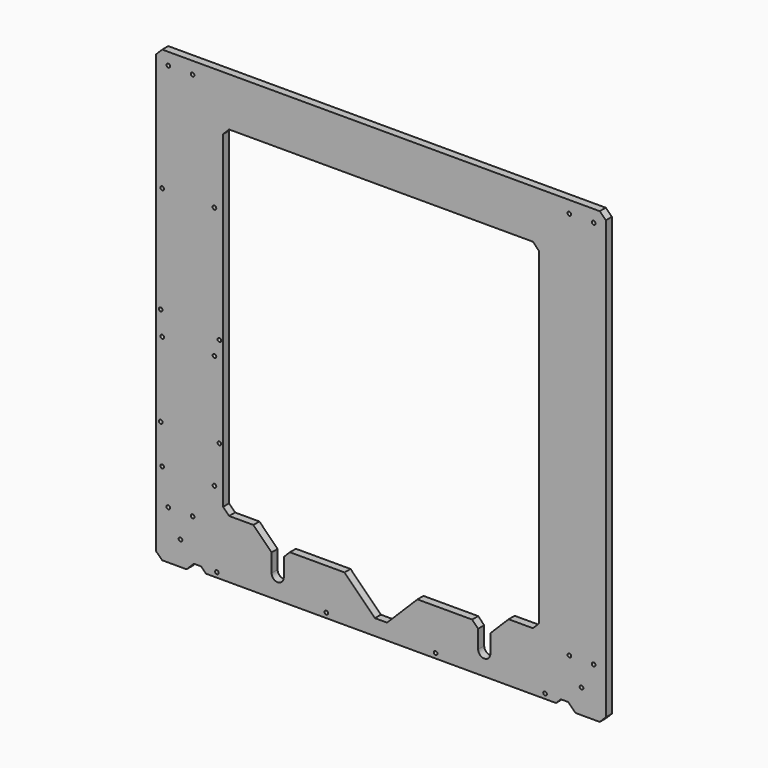
from build123d import *

# Parameters (mm, degrees)
F0_R     = 1.5
F1_DEPTH = 6.2


with BuildPart() as f1:
    # F0 (on Front) → F1 (new body)
    with BuildSketch(Plane.XZ):
        Polygon((-185, -180.191748), (-180, -185), (-160, -185), (-158, -183), (-154, -179), (-148, -179), (-144, -183), (144, -183), (148, -179), (154, -179), (158, -183), (160, -185), (180, -185), (185, -180), (185, 180), (180, 185), (-180, 185), (-185, 180), align=None)
        with Locations((-165, -165)):
            Circle(F0_R, mode=Mode.SUBTRACT)
        with Locations((-175, -145)):
            Circle(F0_R, mode=Mode.SUBTRACT)
        with Locations((-155, -145)):
            Circle(F0_R, mode=Mode.SUBTRACT)
        with Locations((-135, -179)):
            Circle(F0_R, mode=Mode.SUBTRACT)
        with Locations((-180.083222, -117.008445)):
            Circle(F0_R, mode=Mode.SUBTRACT)
        with Locations((-137.048456, -117.034667)):
            Circle(F0_R, mode=Mode.SUBTRACT)
        with Locations((-45, -179)):
            Circle(F0_R, mode=Mode.SUBTRACT)
        with Locations((-181.26, -85)):
            Circle(F0_R, mode=Mode.SUBTRACT)
        with Locations((-133, -85)):
            Circle(F0_R, mode=Mode.SUBTRACT)
        with Locations((-180.048456, -23.034667)):
            Circle(F0_R, mode=Mode.SUBTRACT)
        with Locations((-181.26, -3.72)):
            Circle(F0_R, mode=Mode.SUBTRACT)
        with Locations((-137.048456, -23.034667)):
            Circle(F0_R, mode=Mode.SUBTRACT)
        with Locations((-133, -10.07)):
            Circle(F0_R, mode=Mode.SUBTRACT)
        with Locations((45, -179)):
            Circle(F0_R, mode=Mode.SUBTRACT)
        with Locations((135, -179)):
            Circle(F0_R, mode=Mode.SUBTRACT)
        with Locations((165, -165)):
            Circle(F0_R, mode=Mode.SUBTRACT)
        with Locations((155, -145)):
            Circle(F0_R, mode=Mode.SUBTRACT)
        with Locations((175, -145)):
            Circle(F0_R, mode=Mode.SUBTRACT)
        with BuildLine():
            ThreePointArc((-80, -165), (-85, -170), (-90, -165))
            Line((-90, -165), (-90, -150))
            Line((-90, -150), (-105, -135))
            Line((-105, -135), (-125, -135))
            Line((-125, -135), (-130, -130))
            Line((-130, -130), (-130, 140))
            Line((-130, 140), (-125, 145))
            Line((-125, 145), (125, 145))
            Line((125, 145), (130, 140))
            Line((130, 140), (130, -130))
            Line((130, -130), (125, -135))
            Line((125, -135), (105, -135))
            Line((105, -135), (90, -150))
            Line((90, -150), (90, -165))
            ThreePointArc((90, -165), (85, -170), (80, -165))
            Line((80, -165), (80, -150))
            Line((80, -150), (75, -145))
            Line((75, -145), (30, -145))
            Line((30, -145), (5, -170))
            Line((5, -170), (-5, -170))
            Line((-5, -170), (-30, -145))
            Line((-30, -145), (-75, -145))
            Line((-75, -145), (-80, -150))
            Line((-80, -150), (-80, -165))
        make_face(mode=Mode.SUBTRACT)
        with BuildLine():
            ThreePointArc((-179.162686, 85.675875), (-178.710798, 85.144061), (-178.548456, 84.465333))
            ThreePointArc((-178.548456, 84.465333), (-179.389216, 83.117964), (-180.968992, 83.281013))
            ThreePointArc((-180.968992, 83.281013), (-181.280779, 85.394803), (-179.162686, 85.675875))
        make_face(mode=Mode.SUBTRACT)
        with BuildLine():
            ThreePointArc((-136.162686, 85.675875), (-135.710798, 85.144061), (-135.548456, 84.465333))
            ThreePointArc((-135.548456, 84.465333), (-136.389216, 83.117964), (-137.968992, 83.281013))
            ThreePointArc((-137.968992, 83.281013), (-138.280779, 85.394803), (-136.162686, 85.675875))
        make_face(mode=Mode.SUBTRACT)
        with Locations((-175, 175)):
            Circle(F0_R, mode=Mode.SUBTRACT)
        with Locations((-155, 175)):
            Circle(F0_R, mode=Mode.SUBTRACT)
        with Locations((155, 175)):
            Circle(F0_R, mode=Mode.SUBTRACT)
        with Locations((175, 175)):
            Circle(F0_R, mode=Mode.SUBTRACT)
    extrude(amount=F1_DEPTH)


solid = f1.part
